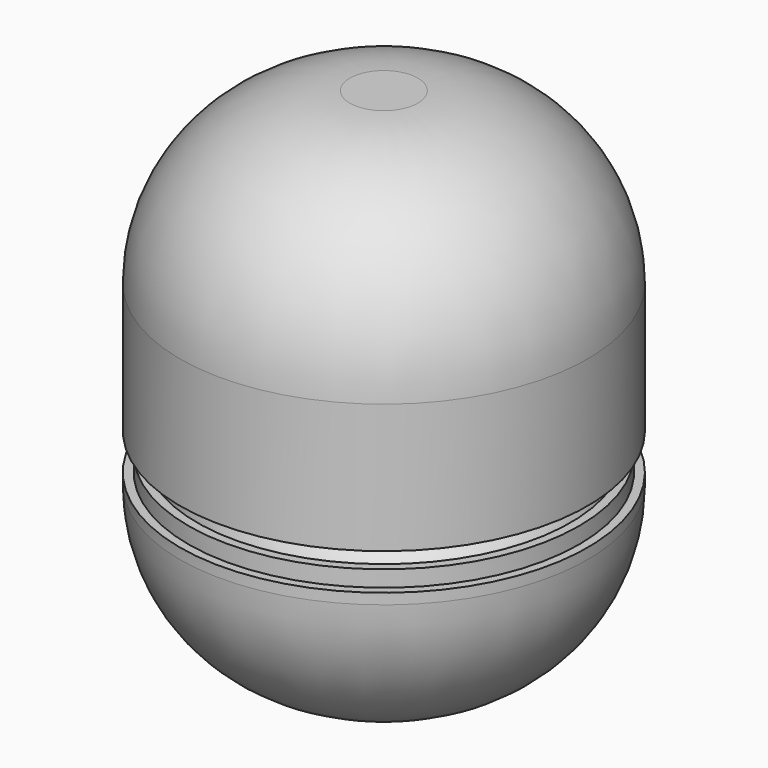
from build123d import *

# Parameters (mm, degrees)
F2_R     = 25
F4_R     = 25
F5_R     = 28.75
F6_DEPTH = 10
F5_R_2   = 30
F7_DEPTH = 3


with BuildPart() as f1:
    # F0 (on Front) → F1 (revolve)
    with BuildSketch(Plane.XZ):
        with BuildLine():
            add(Edge.make_bspline(
                [(0, 46.4285731532), (-3.0336884151, 45.9533913125), (-9.1381169075, 44.9972240434), (-16.5640476024, 38.5549685221), (-21.0945764733, 32.5762312221), (-25.5314789576, 23.4325014201), (-27.6966039196, 13.5804920532), (-27.8186964321, 8.5749305692), (-27.6943262747, 5.6445129926), (-27.6820895485, 5.3903263004)],
                knots=[0, 0, 0, 0, 0.0921033363, 0.1853315678, 0.26896937, 0.3657380818, 0.4619401399, 0.5449713841, 0.5527497038, 0.5527497038, 0.5527497038, 0.5527497038], degree=3))
            Line((0, 46.4285731532), (0, 49.4285731532))
            Line((0, 49.4285731532), (-30, 49.4285731532))
            Line((-30, 49.4285731532), (-30, 48.2053891704))
            Line((-30, 48.2053891704), (-30, 5.3903263004))
            Line((-30, 5.3903263004), (-27.6820895485, 5.3903263004))
        make_face()
    revolve(axis=Axis((0, 0, 11.4285731532), (0, 0, -1)))

    # F2
    f2_edges = [f1.edges().sort_by_distance(p)[0] for p in [
        (30, 0, 49.428573),
    ]]
    fillet(f2_edges, radius=F2_R)

    # F5 (on Top) → F6 (cut)
    with BuildSketch(Plane.XY):
        Circle(F5_R)
    extrude(amount=F6_DEPTH, mode=Mode.SUBTRACT)


with BuildPart() as f3:
    # F0 (on Front) → F3 (revolve)
    with BuildSketch(Plane.XZ):
        with BuildLine():
            Line((0, -26.5714268468), (0, -23.5714268468))
            add(Edge.make_bspline(
                [(-27.4619179855, 2.3903263004), (-27.2504196955, 0.3136378959), (-26.3363530154, -5.2083679716), (-22.3000712492, -12.4612826037), (-16.369632818, -18.1055645784), (-6.7910940675, -23.3511123408), (-2.0799186612, -23.5039507895), (0, -23.5714268468)],
                knots=[0.5822227079, 0.5822227079, 0.5822227079, 0.5822227079, 0.6417594677, 0.7347703368, 0.8224286932, 0.9216047286, 1, 1, 1, 1], degree=3))
            Line((-27.4619179855, 2.3903263004), (-30, 2.3903263004))
            Line((-30, 2.3903263004), (-30, -21.7946108296))
            Line((-30, -21.7946108296), (-30, -26.5714268468))
            Line((-30, -26.5714268468), (0, -26.5714268468))
        make_face()
    revolve(axis=Axis((0, 0, 11.4285731532), (0, 0, -1)))

    # F4
    f4_edges = [f3.edges().sort_by_distance(p)[0] for p in [
        (30, 0, -26.571427),
    ]]
    fillet(f4_edges, radius=F4_R)

    # F5 (on Top) → F7 (cut)
    with BuildSketch(Plane.XY):
        Circle(F5_R_2)
        Circle(F5_R, mode=Mode.SUBTRACT)
    extrude(amount=F7_DEPTH, mode=Mode.SUBTRACT)


solid = Compound([f1.part, f3.part])
